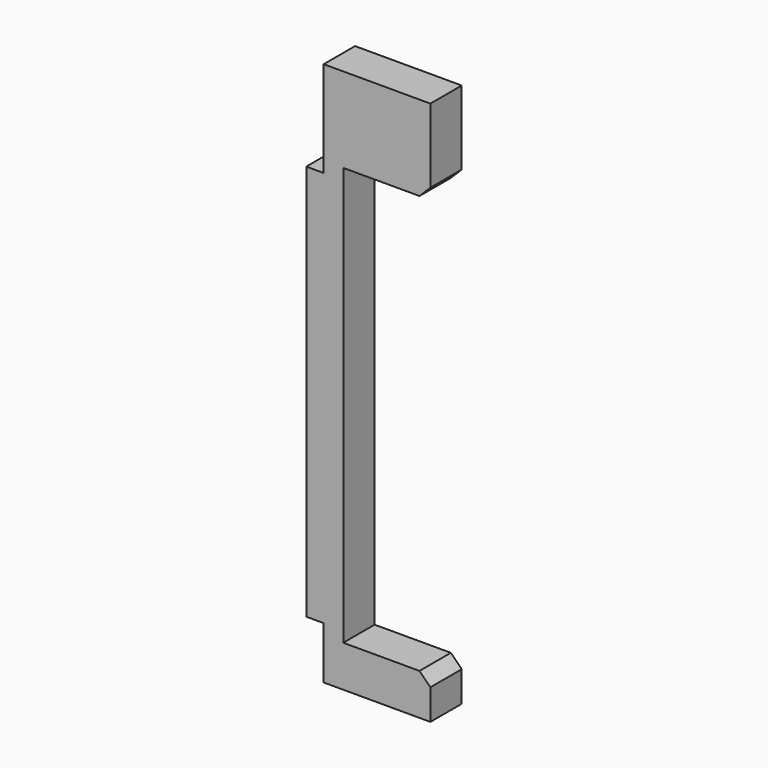
from build123d import *

# Parameters (mm, degrees)
F1_DEPTH = 18
F2_SIZE  = 5


with BuildPart() as f1:
    # F0 (on Front) → F1 (new body)
    with BuildSketch(Plane.XZ):
        Polygon((0, 24), (0, 0), (49, 0), (49, 19), (9, 19), (9, 211), (49, 211), (49, 250), (0, 250), (0, 206), (-8, 206), (-8, 24), align=None)
    extrude(amount=F1_DEPTH)

    # F2
    f2_edges = [f1.edges().sort_by_distance(p)[0] for p in [
        (49, -9, 211),
        (49, -9, 19),
    ]]
    chamfer(f2_edges, length=F2_SIZE)


solid = f1.part
